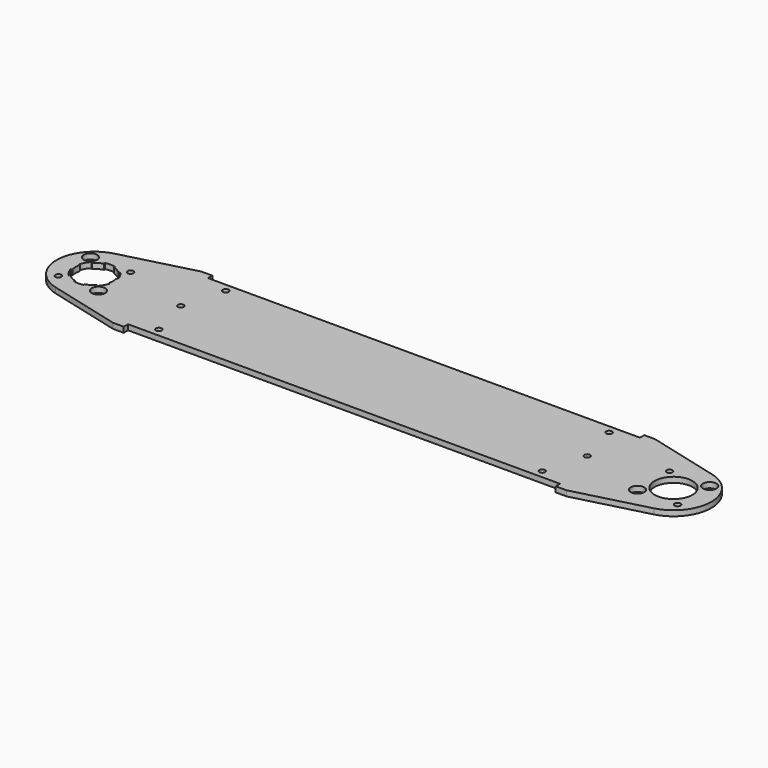
from build123d import *

# Parameters (mm, degrees)
F0_R     = 1.7272
F0_R_2   = 3.96875
F0_R_3   = 11.1125
F1_DEPTH = 3.175
F3_DEPTH = 3.175
F4_COUNT = 6
F4_ANGLE = 300


with BuildPart() as f1:
    # F0 (on Top) → F1 (new body)
    with BuildSketch(Plane.XY):
        with BuildLine():
            Line((-303.6125627, 32.54375), (-346.1094200534, 21.5120031198))
            ThreePointArc((-346.1094200534, 21.5120031198), (-362.7501254, 0), (-346.1094200534, -21.5120031198))
            Line((-346.1094200534, -21.5120031198), (-303.6125627, -32.54375))
            Line((-303.6125627, -32.54375), (-297.2625627, -32.54375))
            Line((-297.2625627, -32.54375), (-297.2625627, -29.36875))
            Line((-297.2625627, -29.36875), (-43.2625627, -29.36875))
            Line((-43.2625627, -29.36875), (-43.2625627, -32.54375))
            Line((-43.2625627, -32.54375), (-36.9125627, -32.54375))
            Line((-36.9125627, -32.54375), (5.5842946534, -21.5120031198))
            ThreePointArc((5.5842946534, -21.5120031198), (22.225, 0), (5.5842946534, 21.5120031198))
            Line((5.5842946534, 21.5120031198), (-36.9125627, 32.54375))
            Line((-36.9125627, 32.54375), (-43.2625627, 32.54375))
            Line((-43.2625627, 32.54375), (-43.2625627, 29.36875))
            Line((-43.2625627, 29.36875), (-297.2625627, 29.36875))
            Line((-297.2625627, 29.36875), (-297.2625627, 32.54375))
            Line((-297.2625627, 32.54375), (-303.6125627, 32.54375))
        make_face()
        with Locations((-282.9750627, -24.60625)):
            Circle(F0_R, mode=Mode.SUBTRACT)
        with Locations((-352.3117115589, -11.7865861589)):
            Circle(F0_R, mode=Mode.SUBTRACT)
        with Locations((-328.7385392411, -11.7865861589)):
            Circle(F0_R_2, mode=Mode.SUBTRACT)
        with Locations((-57.5500627, -24.60625)):
            Circle(F0_R, mode=Mode.SUBTRACT)
        with Locations((-11.7865861589, -11.7865861589)):
            Circle(F0_R_2, mode=Mode.SUBTRACT)
        with Locations((11.7865861589, -11.7865861589)):
            Circle(F0_R, mode=Mode.SUBTRACT)
        with Locations((-340.5251254, 0)):
            Circle(F0_R_3, mode=Mode.SUBTRACT)
        with Locations((-289.7251254, 0)):
            Circle(F0_R, mode=Mode.SUBTRACT)
        with Locations((-352.3117115589, 11.7865861589)):
            Circle(F0_R_2, mode=Mode.SUBTRACT)
        with Locations((-328.7385392411, 11.7865861589)):
            Circle(F0_R, mode=Mode.SUBTRACT)
        with Locations((-282.9750627, 24.60625)):
            Circle(F0_R, mode=Mode.SUBTRACT)
        with Locations((-50.8, 0)):
            Circle(F0_R, mode=Mode.SUBTRACT)
        Circle(F0_R_3, mode=Mode.SUBTRACT)
        with Locations((-11.7865861589, 11.7865861589)):
            Circle(F0_R, mode=Mode.SUBTRACT)
        with Locations((11.7865861589, 11.7865861589)):
            Circle(F0_R_2, mode=Mode.SUBTRACT)
        with Locations((-57.5500627, 24.60625)):
            Circle(F0_R, mode=Mode.SUBTRACT)
    extrude(amount=F1_DEPTH)

    # F2 (on face) → F3 (cut, through all)
    with BuildSketch(Plane(origin=(0, 0, 0), x_dir=(1, 0, 0), z_dir=(0, 0, -1))):
        with BuildLine():
            ThreePointArc((-348.3828495059, -7.8577241059), (-350.1488326996, -5.55625), (-351.2589761446, -2.8761266387))
            Line((-351.2589761446, -2.8761266387), (-352.0256797693, -3.0815642558))
            ThreePointArc((-352.0256797693, -3.0815642558), (-350.8362403638, -5.953125), (-348.9441155135, -8.4189901135))
            Line((-348.9441155135, -8.4189901135), (-348.3828495059, -7.8577241059))
        make_face()
    f3 = extrude(amount=-F3_DEPTH, mode=Mode.SUBTRACT)

    # F4: F3 ×6 about axis
    f4_axis = Axis((-340.5251254, 0, 0), (0, 0, -1))
    for i in range(1, F4_COUNT):
        add(f3.rotate(f4_axis, i * F4_ANGLE / (F4_COUNT - 1)), mode=Mode.SUBTRACT)


solid = f1.part
